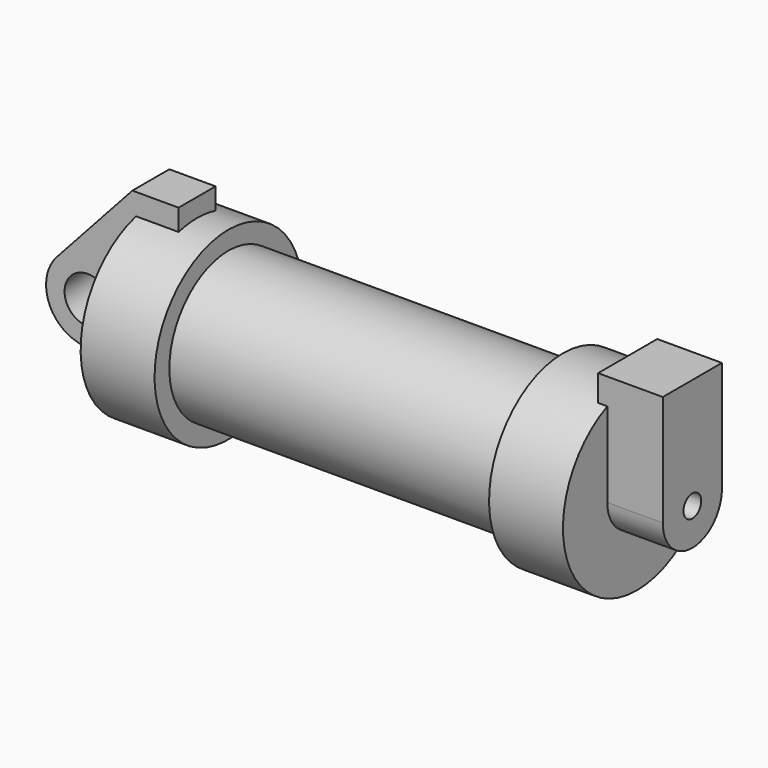
from build123d import *

# Parameters (mm, degrees)
F0_W     = 5.842
F0_H     = 12.7
F0_R     = 3.175
F2_DEPTH = 3.175
F3_DEPTH = 3.175
F4_R     = 1.524
F5_DEPTH = 7.62
F6_DEPTH = 1.27
F7_DEPTH = 56.134


with BuildPart() as f1:
    # F0 (on Front) → F1 (revolve)
    with BuildSketch(Plane.XZ):
        with Locations((2.921, 6.35)):
            Rectangle(F0_W, F0_H)
        Polygon((5.842, 12.7), (5.842, 0), (66.294, 0), (66.294, 12.7), (56.134, 12.7), (56.134, 10.16), (10.16, 10.16), (10.16, 12.7), align=None)
    revolve(axis=Axis((33.147, 0, 0), (-1, 0, 0)))

    # F0 (on Front) → F2 (join, symmetric)
    with BuildSketch(Plane.XZ):
        with BuildLine():
            ThreePointArc((-8.1826630726, -5.5069827884), (-3.1957909266, -4.5493385486), (-0.9398, 0))
            ThreePointArc((-0.9398, 0), (-4.5919612295, 5.3297205562), (-10.8806298187, 3.8475430269))
            ThreePointArc((-10.8806298187, 3.8475430269), (-12.1459778134, -1.5837270034), (-8.1826630726, -5.5069827884))
        make_face()
        with Locations((-6.6548, 0)):
            Circle(F0_R, mode=Mode.SUBTRACT)
        with BuildLine():
            Line((-0.9398, 0), (0, 0))
            Line((0, 0), (0, 12.7))
            Line((0, 12.7), (5.842, 12.7))
            Line((5.842, 12.7), (5.842, 15.24))
            Line((5.842, 15.24), (-0.508, 15.24))
            Line((-0.508, 15.24), (-10.8806298187, 3.8475430269))
            ThreePointArc((-10.8806298187, 3.8475430269), (-4.5919612295, 5.3297205562), (-0.9398, 0))
        make_face()
        with Locations((2.921, 6.35)):
            Rectangle(F0_W, F0_H)
        with BuildLine():
            Line((5.842, 0), (0, 0))
            Line((0, 0), (-0.9398, 0))
            ThreePointArc((-0.9398, 0), (-3.1957909266, -4.5493385486), (-8.1826630726, -5.5069827884))
            Line((-8.1826630726, -5.5069827884), (5.842, -9.398))
            Line((5.842, -9.398), (5.842, 0))
        make_face()
        with Locations((-6.6548, 0)):
            Circle(F0_R)
    extrude(amount=F2_DEPTH, both=True)

    # F0 (on Front) → F3 (cut, symmetric)
    with BuildSketch(Plane.XZ):
        with Locations((-6.6548, 0)):
            Circle(F0_R)
    extrude(amount=F3_DEPTH, both=True, mode=Mode.SUBTRACT)

    # F4 (on face) → F5 (join)
    with BuildSketch(Plane.YZ.offset(66.294)):
        with BuildLine():
            ThreePointArc((-5.08, 0), (0, -5.08), (5.08, 0))
            ThreePointArc((5.08, 0), (0, 5.08), (-5.08, 0))
        make_face()
        Circle(F4_R, mode=Mode.SUBTRACT)
        with BuildLine():
            ThreePointArc((-5.08, 0), (0, 5.08), (5.08, 0))
            Line((5.08, 0), (5.08, 15.24))
            Line((5.08, 15.24), (-5.08, 15.24))
            Line((-5.08, 15.24), (-5.08, 0))
        make_face()
    extrude(amount=F5_DEPTH)

    # F6 (add): a face of the model
    f6_faces = [f1.faces().sort_by_distance(p)[0] for p in [
        (66.294, 0, 13.7792682875),
    ]]
    extrude(f6_faces, amount=F6_DEPTH)

    # F4 (on face) → F7 (cut, through all)
    with BuildSketch(Plane.YZ.offset(66.294)):
        Circle(F4_R)
    extrude(amount=-F7_DEPTH, mode=Mode.SUBTRACT)


solid = f1.part
